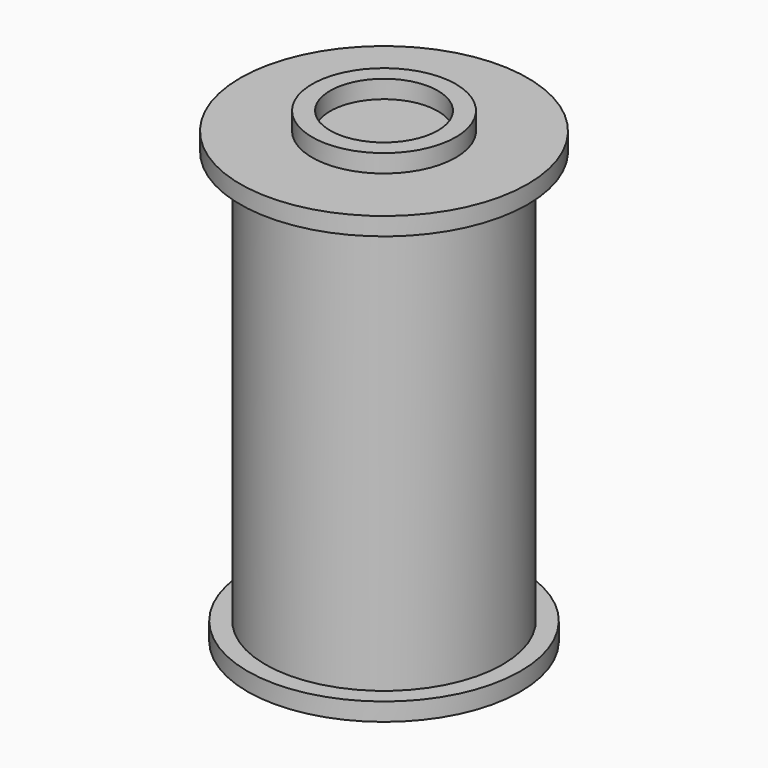
from build123d import *

# Parameters (mm, degrees)
F4_W     = 10
F4_H     = 10
F5_DEPTH = 77.6
F6_W     = 30
F6_H     = 30
F7_DEPTH = 2
F8_W     = 20
F8_H     = 20
F9_DEPTH = 2


with BuildPart() as f1:
    # F0 (on Front) → F1 (revolve)
    with BuildSketch(Plane.XZ):
        Polygon((33, 5), (33, 120), (30, 120), (30, 115), (30, 114), (30, 110), (25, 110), (25, 0), (38, 0), (38, 5), align=None)
    revolve(axis=Axis((0, 0, 57), (0, 0, 1)))

    # F4 (on Front) → F5 (cut)
    with BuildSketch(Plane.XZ):
        with Locations((0, 5)):
            Rectangle(F4_W, F4_H)
    extrude(amount=-F5_DEPTH, mode=Mode.SUBTRACT)


with BuildPart() as f2:
    # F0 (on Front) → F2 (revolve)
    with BuildSketch(Plane.XZ):
        Polygon((33, 120), (40, 120), (40, 125), (20, 125), (20, 130), (15, 130), (15, 125), (0, 125), (0, 120), (27, 120), (27, 115), (30, 115), (30, 120), align=None)
    revolve(axis=Axis((0, 0, 57), (0, 0, 1)))


with BuildPart() as f3:
    # F0 (on Front) → F3 (revolve)
    with BuildSketch(Plane.XZ):
        Polygon((30, 110), (30, 114), (0, 114), (0, 110), (25, 110), align=None)
    revolve(axis=Axis((0, 0, 57), (0, 0, 1)))

    # F6 (on face) → F7 (cut)
    with BuildSketch(Plane.XY.offset(114)):
        Rectangle(F6_W, F6_H)
    extrude(amount=-F7_DEPTH, mode=Mode.SUBTRACT)

    # F8 (on face) → F9 (cut)
    with BuildSketch(Plane.XY.offset(112)):
        Rectangle(F8_W, F8_H)
    extrude(amount=-F9_DEPTH, mode=Mode.SUBTRACT)


solid = Compound([f1.part, f2.part, f3.part])
